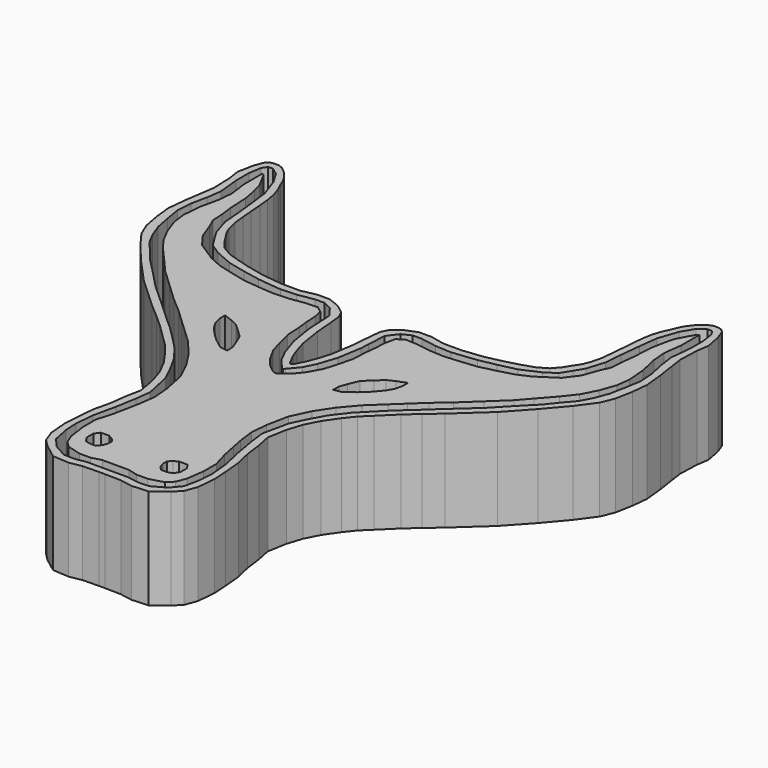
from build123d import *

# Parameters (mm, degrees)
F1_DEPTH = 25.4
F2_DEPTH = 6.35
F3_DEPTH = 25.4


with BuildPart() as f1:
    # F0 (on Top) → F1 (new body)
    with BuildSketch(Plane.XY):
        Polygon((-3.389358, -58.259059), (0, -58.259059), (3.389358, -58.259059), (5.826938, -58.91097), (8.718023, -58.91097), (12.175986, -57.918932), (13.678216, -56.445047), (14.613567, -54.035813), (15.237135, -49.500778), (15.237135, -45.504279), (14.056162, -41.38774), (13.2814, -37.596315), (12.714521, -34.676891), (12.175986, -30.567015), (12.572801, -26.202044), (13.678215, -20.73166), (15.917389, -15.998218), (18.666754, -11.859999), (22.068027, -7.863501), (25.80943, -4.348849), (28.585367, -1.741149), (31.743658, 1.225731), (35.389688, 4.352746), (39.807281, 8.502607), (44.145938, 12.578317), (46.783961, 15.605297), (50.128549, 19.403389), (52.707851, 22.662943), (54.606896, 26.34766), (56.024097, 30.315813), (56.449253, 33.745434), (56.024097, 38.592249), (55.003714, 43.240659), (54.686903, 46.852331), (55.287153, 51.460408), (55.287153, 54.804992), (55.287153, 57.29926), (54.776959, 56.959134), (53.869955, 55.28684), (52.554042, 52.860617), (51.97091, 50.525051), (51.294573, 46.984393), (51.024001, 41.843567), (50.62126, 38.649216), (50.460344, 35.591836), (49.375109, 33.149846), (47.942568, 29.214572), (45.512211, 25.929008), (40.561788, 22.722255), (37.327643, 21.279737), (33.442646, 20.231027), (29.541412, 19.296627), (25.312508, 18.8557), (21.544572, 18.555066), (17.658709, 18.759586), (13.988661, 19.316671), (11.06953, 19.470311), (9.479164, 18.294519), (8.938025, 15.889453), (8.790974, 13.095503), (8.477054, 10.237551), (8.280561, 6.50422), (7.314606, 2.661598), (6.372622, -0.485029), (4.65378, -3.600432), (2.885278, -5.836298), (1.522408, -6.978704), (0.760804, -7.519843), (0, -7.900645), (-0.760804, -7.519843), (-1.522408, -6.978704), (-2.885278, -5.836298), (-4.65378, -3.600432), (-6.372622, -0.485029), (-7.314606, 2.661598), (-8.280561, 6.50422), (-8.477054, 10.237551), (-8.790974, 13.095503), (-8.938025, 15.889453), (-9.479164, 18.294519), (-11.06953, 19.470311), (-13.988661, 19.316671), (-17.658709, 18.759586), (-21.544572, 18.555066), (-25.312508, 18.8557), (-29.541412, 19.296627), (-33.442646, 20.231027), (-37.327643, 21.279737), (-40.561788, 22.722255), (-45.512211, 25.929008), (-47.942568, 29.214572), (-49.375109, 33.149846), (-50.460344, 35.591836), (-50.62126, 38.649216), (-51.024001, 41.843567), (-51.294573, 46.984393), (-51.97091, 50.525051), (-52.554042, 52.860617), (-53.869955, 55.28684), (-54.776959, 56.959134), (-55.287153, 57.29926), (-55.287153, 54.804992), (-55.287153, 51.460408), (-54.686903, 46.852331), (-55.003714, 43.240659), (-56.024097, 38.592249), (-56.449253, 33.745434), (-56.024097, 30.315813), (-54.606896, 26.34766), (-52.707851, 22.662943), (-50.128549, 19.403389), (-46.783961, 15.605297), (-44.145938, 12.578317), (-39.807281, 8.502607), (-35.389688, 4.352746), (-31.743658, 1.225731), (-28.585367, -1.741149), (-25.80943, -4.348849), (-22.068027, -7.863501), (-18.666754, -11.859999), (-15.917389, -15.998218), (-13.678215, -20.73166), (-12.572801, -26.202044), (-12.175986, -30.567015), (-12.714521, -34.676891), (-13.2814, -37.596315), (-14.056162, -41.38774), (-15.237135, -45.504279), (-15.237135, -49.500778), (-14.613567, -54.035813), (-13.678216, -56.445047), (-12.175986, -57.918932), (-8.718023, -58.91097), (-5.826938, -58.91097), align=None)
        Polygon((-10.953977, -49.271323), (-8.830446, -49.271323), (-7.751827, -49.878046), (-6.909156, -50.720718), (-6.909156, -51.934164), (-7.313638, -53.181317), (-8.223723, -54.293644), (-9.740531, -54.293644), (-10.953977, -53.990282), (-11.864061, -52.642006), (-11.864061, -50.518475), align=None, mode=Mode.SUBTRACT)
        Polygon((7.751827, -49.878046), (8.830446, -49.271323), (10.953977, -49.271323), (11.864061, -50.518475), (11.864061, -52.642006), (10.953977, -53.990282), (9.740531, -54.293644), (8.223723, -54.293644), (7.313638, -53.181317), (6.909156, -51.934164), (6.909156, -50.720718), align=None, mode=Mode.SUBTRACT)
        Polygon((-19.015282, 3.520188), (-17.251568, 1.916811), (-15.247348, 0), (-14.165069, -2.572643), (-13.483633, -4.416526), (-13.403465, -6.260409), (-15.407685, -5.939734), (-17.852835, -4.095851), (-19.977309, -2.09163), (-21.741023, 0), (-22.703048, 1.676305), (-23.143977, 3.640441), (-23.143977, 5.283902), (-20.778997, 4.361961), align=None, mode=Mode.SUBTRACT)
        Polygon((15.407685, -5.939734), (13.403465, -6.260409), (13.483633, -4.416526), (14.165069, -2.572643), (15.247348, 0), (17.251568, 1.916811), (19.015282, 3.520188), (20.778997, 4.361961), (23.143977, 5.283902), (23.143977, 3.640441), (22.703048, 1.676305), (21.741023, 0), (19.977309, -2.09163), (17.852835, -4.095851), align=None, mode=Mode.SUBTRACT)
    extrude(amount=F1_DEPTH)

    # F0 (on Top) → F2 (join)
    with BuildSketch(Plane.XY):
        Polygon((-2.555441, -60.815077), (0, -60.815077), (2.555441, -60.815077), (5.279181, -60.818188), (7.950657, -61.29393), (10.784318, -61.20323), (14.171902, -59.317764), (16.218482, -56.855902), (17.062951, -52.657373), (17.24593, -49.327176), (16.802836, -44.458628), (15.558586, -38.786318), (14.659286, -33.60809), (14.167955, -29.637428), (15.594959, -23.032803), (17.335746, -19.398907), (19.468213, -15.503895), (22.340512, -11.73944), (25.212811, -8.801861), (28.32447, -5.690202), (31.283811, -3.079019), (34.765385, 0.163199), (37.833523, 2.9267), (41.663256, 6.386517), (45.733131, 10.654914), (49.750276, 14.735868), (51.969782, 17.542889), (54.341607, 20.28463), (55.951837, 23.37453), (57.170384, 26.63851), (57.931978, 30.533522), (58.606535, 34.472056), (58.345418, 38.410589), (57.475023, 42.523202), (56.952786, 46.200618), (57.518538, 51.640578), (57.522718, 55.746935), (57.012051, 58.96296), (56.1928, 60.20543), (54.972637, 60.213964), (53.144813, 58.843091), (51.338743, 55.818472), (49.649835, 50.925177), (49.054664, 46.086185), (48.514355, 40.920459), (48.152074, 36.521375), (46.780597, 32.070536), (45.357365, 29.663976), (43.778867, 27.179787), (41.087665, 25.394278), (36.507439, 23.375874), (32.022797, 22.34395), (27.709268, 21.486852), (21.564898, 20.80921), (17.539619, 21.021068), (13.513187, 21.729624), (11.171071, 21.729624), (8.929405, 20.631077), (6.971543, 18.069386), (6.722612, 13.339731), (6.603922, 11.084632), (5.624704, 5.072484), (4.097962, 0.440507), (2.648852, -2.509468), (0.452895, -5.137393), (0.111056, -5.419943), (-0.111056, -5.419943), (-0.452895, -5.137393), (-2.648852, -2.509468), (-4.097962, 0.440507), (-5.624704, 5.072484), (-6.603922, 11.084632), (-6.722612, 13.339731), (-6.971543, 18.069386), (-8.929405, 20.631077), (-11.171071, 21.729624), (-13.513187, 21.729624), (-17.539619, 21.021068), (-21.564898, 20.80921), (-27.709268, 21.486852), (-32.022797, 22.34395), (-36.507439, 23.375874), (-41.087665, 25.394278), (-43.778867, 27.179787), (-45.357365, 29.663976), (-46.780597, 32.070536), (-48.152074, 36.521375), (-48.514355, 40.920459), (-49.054664, 46.086185), (-49.649835, 50.925177), (-51.338743, 55.818472), (-53.144813, 58.843091), (-54.972637, 60.213964), (-56.1928, 60.20543), (-57.012051, 58.96296), (-57.522718, 55.746935), (-57.518538, 51.640578), (-56.952786, 46.200618), (-57.475023, 42.523202), (-58.345418, 38.410589), (-58.606535, 34.472056), (-57.931978, 30.533522), (-57.170384, 26.63851), (-55.951837, 23.37453), (-54.341607, 20.28463), (-51.969782, 17.542889), (-49.750276, 14.735868), (-45.733131, 10.654914), (-41.663256, 6.386517), (-37.833523, 2.9267), (-34.765385, 0.163199), (-31.283811, -3.079019), (-28.32447, -5.690202), (-25.212811, -8.801861), (-22.340512, -11.73944), (-19.468213, -15.503895), (-17.335746, -19.398907), (-15.594959, -23.032803), (-14.167955, -29.637428), (-14.659286, -33.60809), (-15.558586, -38.786318), (-16.802836, -44.458628), (-17.24593, -49.327176), (-17.062951, -52.657373), (-16.218482, -56.855902), (-14.171902, -59.317764), (-10.784318, -61.20323), (-7.950657, -61.29393), (-5.279181, -60.818188), align=None)
        Polygon((3.389358, -58.259059), (0, -58.259059), (-3.389358, -58.259059), (-5.826938, -58.91097), (-8.718023, -58.91097), (-12.175986, -57.918932), (-13.678216, -56.445047), (-14.613567, -54.035813), (-15.237135, -49.500778), (-15.237135, -45.504279), (-14.056162, -41.38774), (-13.2814, -37.596315), (-12.714521, -34.676891), (-12.175986, -30.567015), (-12.572801, -26.202044), (-13.678215, -20.73166), (-15.917389, -15.998218), (-18.666754, -11.859999), (-22.068027, -7.863501), (-25.80943, -4.348849), (-28.585367, -1.741149), (-31.743658, 1.225731), (-35.389688, 4.352746), (-39.807281, 8.502607), (-44.145938, 12.578317), (-46.783961, 15.605297), (-50.128549, 19.403389), (-52.707851, 22.662943), (-54.606896, 26.34766), (-56.024097, 30.315813), (-56.449253, 33.745434), (-56.024097, 38.592249), (-55.003714, 43.240659), (-54.686903, 46.852331), (-55.287153, 51.460408), (-55.287153, 54.804992), (-55.287153, 57.29926), (-54.776959, 56.959134), (-53.869955, 55.28684), (-52.554042, 52.860617), (-51.97091, 50.525051), (-51.294573, 46.984393), (-51.024001, 41.843567), (-50.62126, 38.649216), (-50.460344, 35.591836), (-49.375109, 33.149846), (-47.942568, 29.214572), (-45.512211, 25.929008), (-40.561788, 22.722255), (-37.327643, 21.279737), (-33.442646, 20.231027), (-29.541412, 19.296627), (-25.312508, 18.8557), (-21.544572, 18.555066), (-17.658709, 18.759586), (-13.988661, 19.316671), (-11.06953, 19.470311), (-9.479164, 18.294519), (-8.938025, 15.889453), (-8.790974, 13.095503), (-8.477054, 10.237551), (-8.280561, 6.50422), (-7.314606, 2.661598), (-6.372622, -0.485029), (-4.65378, -3.600432), (-2.885278, -5.836298), (-1.522408, -6.978704), (-0.760804, -7.519843), (0, -7.900645), (0.760804, -7.519843), (1.522408, -6.978704), (2.885278, -5.836298), (4.65378, -3.600432), (6.372622, -0.485029), (7.314606, 2.661598), (8.280561, 6.50422), (8.477054, 10.237551), (8.790974, 13.095503), (8.938025, 15.889453), (9.479164, 18.294519), (11.06953, 19.470311), (13.988661, 19.316671), (17.658709, 18.759586), (21.544572, 18.555066), (25.312508, 18.8557), (29.541412, 19.296627), (33.442646, 20.231027), (37.327643, 21.279737), (40.561788, 22.722255), (45.512211, 25.929008), (47.942568, 29.214572), (49.375109, 33.149846), (50.460344, 35.591836), (50.62126, 38.649216), (51.024001, 41.843567), (51.294573, 46.984393), (51.97091, 50.525051), (52.554042, 52.860617), (53.869955, 55.28684), (54.776959, 56.959134), (55.287153, 57.29926), (55.287153, 54.804992), (55.287153, 51.460408), (54.686903, 46.852331), (55.003714, 43.240659), (56.024097, 38.592249), (56.449253, 33.745434), (56.024097, 30.315813), (54.606896, 26.34766), (52.707851, 22.662943), (50.128549, 19.403389), (46.783961, 15.605297), (44.145938, 12.578317), (39.807281, 8.502607), (35.389688, 4.352746), (31.743658, 1.225731), (28.585367, -1.741149), (25.80943, -4.348849), (22.068027, -7.863501), (18.666754, -11.859999), (15.917389, -15.998218), (13.678215, -20.73166), (12.572801, -26.202044), (12.175986, -30.567015), (12.714521, -34.676891), (13.2814, -37.596315), (14.056162, -41.38774), (15.237135, -45.504279), (15.237135, -49.500778), (14.613567, -54.035813), (13.678216, -56.445047), (12.175986, -57.918932), (8.718023, -58.91097), (5.826938, -58.91097), align=None, mode=Mode.SUBTRACT)
        Polygon((-15.247348, 0), (-17.251568, 1.916811), (-19.015282, 3.520188), (-20.778997, 4.361961), (-23.143977, 5.283902), (-23.143977, 3.640441), (-22.703048, 1.676305), (-21.741023, 0), (-19.977309, -2.09163), (-17.852835, -4.095851), (-15.407685, -5.939734), (-13.403465, -6.260409), (-13.483633, -4.416526), (-14.165069, -2.572643), align=None)
        Polygon((13.483633, -4.416526), (13.403465, -6.260409), (15.407685, -5.939734), (17.852835, -4.095851), (19.977309, -2.09163), (21.741023, 0), (22.703048, 1.676305), (23.143977, 3.640441), (23.143977, 5.283902), (20.778997, 4.361961), (19.015282, 3.520188), (17.251568, 1.916811), (15.247348, 0), (14.165069, -2.572643), align=None)
        Polygon((10.953977, -49.271323), (8.830446, -49.271323), (7.751827, -49.878046), (6.909156, -50.720718), (6.909156, -51.934164), (7.313638, -53.181317), (8.223723, -54.293644), (9.740531, -54.293644), (10.953977, -53.990282), (11.864061, -52.642006), (11.864061, -50.518475), align=None)
        Polygon((-7.751827, -49.878046), (-8.830446, -49.271323), (-10.953977, -49.271323), (-11.864061, -50.518475), (-11.864061, -52.642006), (-10.953977, -53.990282), (-9.740531, -54.293644), (-8.223723, -54.293644), (-7.313638, -53.181317), (-6.909156, -51.934164), (-6.909156, -50.720718), align=None)
    extrude(amount=F2_DEPTH)

    # F0 (on Top) → F3 (join)
    with BuildSketch(Plane.XY):
        Polygon((-0.738151, -62.647752), (0, -62.647752), (0.738151, -62.647752), (4.866305, -62.732965), (7.962176, -63.288882), (12.060377, -63.03066), (15.617544, -60.337983), (17.468471, -58.471423), (18.590834, -55.445053), (19.000335, -50.762992), (18.781241, -46.987824), (18.359907, -42.403694), (17.382408, -38.240898), (16.843097, -34.027547), (16.084693, -30.269237), (16.927365, -25.466012), (18.140811, -21.690847), (19.927274, -18.185336), (22.344163, -14.716709), (24.348384, -12.19139), (26.713364, -9.886537), (30.50134, -6.178728), (33.607882, -3.392861), (37.055142, -0.446657), (44.75135, 6.6082), (50.18279, 12.540692), (54.752409, 17.932046), (57.9792, 22.341331), (59.342071, 25.628254), (60.163803, 30.017495), (60.58424, 34.111094), (60.095489, 38.931169), (59.4045, 43.549009), (58.966313, 46.633184), (59.151702, 51.672358), (59.606746, 54.773387), (58.84834, 58.767647), (57.938259, 61.110269), (57.231651, 61.835311), (56.185503, 62.087767), (55.056326, 62.087767), (53.893439, 61.632726), (52.949648, 60.92488), (51.907868, 59.909586), (51.011506, 58.767639), (50.168835, 57.351954), (49.523827, 55.706084), (48.616819, 53.778693), (47.894049, 51.567864), (47.459234, 49.14416), (47.196634, 46.301175), (46.943836, 43.217), (46.69103, 40.301356), (46.387669, 37.40257), (45.733579, 34.796666), (45.025732, 33.043914), (43.829139, 31.240597), (42.868495, 29.656375), (41.162632, 27.6854), (38.677398, 26.242362), (35.851445, 25.340462), (32.724861, 24.458606), (28.055029, 23.396367), (22.723801, 22.795102), (18.07401, 22.795102), (14.466413, 23.576748), (11.359871, 23.576748), (8.371116, 22.40724), (6.112967, 20.67294), (5.215321, 18.846695), (4.91576, 15.984225), (4.520607, 11.153239), (3.61866, 5.471155), (2.725429, 2.521806), (1.849051, 0.162328), (0.635605, -2.230858), (0.344234, -2.711366), (0, -2.846065), (-0.344234, -2.711366), (-0.635605, -2.230858), (-1.849051, 0.162328), (-2.725429, 2.521806), (-3.61866, 5.471155), (-4.520607, 11.153239), (-4.91576, 15.984225), (-5.215321, 18.846695), (-6.112967, 20.67294), (-8.371116, 22.40724), (-11.359871, 23.576748), (-14.466413, 23.576748), (-18.07401, 22.795102), (-22.723801, 22.795102), (-28.055029, 23.396367), (-32.724861, 24.458606), (-35.851445, 25.340462), (-38.677398, 26.242362), (-41.162632, 27.6854), (-42.868495, 29.656375), (-43.829139, 31.240597), (-45.025732, 33.043914), (-45.733579, 34.796666), (-46.387669, 37.40257), (-46.69103, 40.301356), (-46.943836, 43.217), (-47.196634, 46.301175), (-47.459234, 49.14416), (-47.894049, 51.567864), (-48.616819, 53.778693), (-49.523827, 55.706084), (-50.168835, 57.351954), (-51.011506, 58.767639), (-51.907868, 59.909586), (-52.949648, 60.92488), (-53.893439, 61.632726), (-55.056326, 62.087767), (-56.185503, 62.087767), (-57.231651, 61.835311), (-57.938259, 61.110269), (-58.84834, 58.767647), (-59.606746, 54.773387), (-59.151702, 51.672358), (-58.966313, 46.633184), (-59.4045, 43.549009), (-60.095489, 38.931169), (-60.58424, 34.111094), (-60.163803, 30.017495), (-59.342071, 25.628254), (-57.9792, 22.341331), (-54.752409, 17.932046), (-50.18279, 12.540692), (-44.75135, 6.6082), (-37.055142, -0.446657), (-33.607882, -3.392861), (-30.50134, -6.178728), (-26.713364, -9.886537), (-24.348384, -12.19139), (-22.344163, -14.716709), (-19.927274, -18.185336), (-18.140811, -21.690847), (-16.927365, -25.466012), (-16.084693, -30.269237), (-16.843097, -34.027547), (-17.382408, -38.240898), (-18.359907, -42.403694), (-18.781241, -46.987824), (-19.000335, -50.762992), (-18.590834, -55.445053), (-17.468471, -58.471423), (-15.617544, -60.337983), (-12.060377, -63.03066), (-7.962176, -63.288882), (-4.866305, -62.732965), align=None)
        Polygon((2.555441, -60.815077), (0, -60.815077), (-2.555441, -60.815077), (-5.279181, -60.818188), (-7.950657, -61.29393), (-10.784318, -61.20323), (-14.171902, -59.317764), (-16.218482, -56.855902), (-17.062951, -52.657373), (-17.24593, -49.327176), (-16.802836, -44.458628), (-15.558586, -38.786318), (-14.659286, -33.60809), (-14.167955, -29.637428), (-15.594959, -23.032803), (-17.335746, -19.398907), (-19.468213, -15.503895), (-22.340512, -11.73944), (-25.212811, -8.801861), (-28.32447, -5.690202), (-31.283811, -3.079019), (-34.765385, 0.163199), (-37.833523, 2.9267), (-41.663256, 6.386517), (-45.733131, 10.654914), (-49.750276, 14.735868), (-51.969782, 17.542889), (-54.341607, 20.28463), (-55.951837, 23.37453), (-57.170384, 26.63851), (-57.931978, 30.533522), (-58.606535, 34.472056), (-58.345418, 38.410589), (-57.475023, 42.523202), (-56.952786, 46.200618), (-57.518538, 51.640578), (-57.522718, 55.746935), (-57.012051, 58.96296), (-56.1928, 60.20543), (-54.972637, 60.213964), (-53.144813, 58.843091), (-51.338743, 55.818472), (-49.649835, 50.925177), (-49.054664, 46.086185), (-48.514355, 40.920459), (-48.152074, 36.521375), (-46.780597, 32.070536), (-45.357365, 29.663976), (-43.778867, 27.179787), (-41.087665, 25.394278), (-36.507439, 23.375874), (-32.022797, 22.34395), (-27.709268, 21.486852), (-21.564898, 20.80921), (-17.539619, 21.021068), (-13.513187, 21.729624), (-11.171071, 21.729624), (-8.929405, 20.631077), (-6.971543, 18.069386), (-6.722612, 13.339731), (-6.603922, 11.084632), (-5.624704, 5.072484), (-4.097962, 0.440507), (-2.648852, -2.509468), (-0.452895, -5.137393), (-0.111056, -5.419943), (0.111056, -5.419943), (0.452895, -5.137393), (2.648852, -2.509468), (4.097962, 0.440507), (5.624704, 5.072484), (6.603922, 11.084632), (6.722612, 13.339731), (6.971543, 18.069386), (8.929405, 20.631077), (11.171071, 21.729624), (13.513187, 21.729624), (17.539619, 21.021068), (21.564898, 20.80921), (27.709268, 21.486852), (32.022797, 22.34395), (36.507439, 23.375874), (41.087665, 25.394278), (43.778867, 27.179787), (45.357365, 29.663976), (46.780597, 32.070536), (48.152074, 36.521375), (48.514355, 40.920459), (49.054664, 46.086185), (49.649835, 50.925177), (51.338743, 55.818472), (53.144813, 58.843091), (54.972637, 60.213964), (56.1928, 60.20543), (57.012051, 58.96296), (57.522718, 55.746935), (57.518538, 51.640578), (56.952786, 46.200618), (57.475023, 42.523202), (58.345418, 38.410589), (58.606535, 34.472056), (57.931978, 30.533522), (57.170384, 26.63851), (55.951837, 23.37453), (54.341607, 20.28463), (51.969782, 17.542889), (49.750276, 14.735868), (45.733131, 10.654914), (41.663256, 6.386517), (37.833523, 2.9267), (34.765385, 0.163199), (31.283811, -3.079019), (28.32447, -5.690202), (25.212811, -8.801861), (22.340512, -11.73944), (19.468213, -15.503895), (17.335746, -19.398907), (15.594959, -23.032803), (14.167955, -29.637428), (14.659286, -33.60809), (15.558586, -38.786318), (16.802836, -44.458628), (17.24593, -49.327176), (17.062951, -52.657373), (16.218482, -56.855902), (14.171902, -59.317764), (10.784318, -61.20323), (7.950657, -61.29393), (5.279181, -60.818188), align=None, mode=Mode.SUBTRACT)
    extrude(amount=F3_DEPTH)


solid = f1.part
